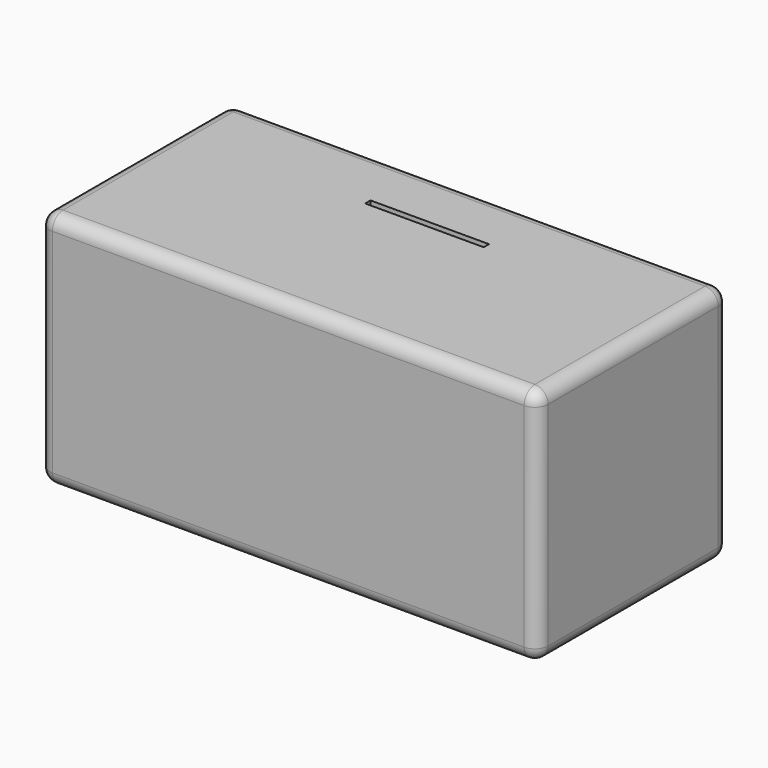
from build123d import *

# Parameters (mm, degrees)
F0_W     = 75
F0_H     = 36
F1_DEPTH = 36
F2_R     = 2


with BuildPart() as f1:
    # F0 (on Top) → F1 (new body)
    with BuildSketch(Plane.XY):
        Rectangle(F0_W, F0_H)
        Polygon((-8.825392, 7.5), (-8.825392, 8), (-8.825392, 8.5), (8.995996, 8.5), (8.995996, 8), (8.995996, 7.5), align=None, mode=Mode.SUBTRACT)
    extrude(amount=F1_DEPTH)

    # F2
    f2_edges = [f1.edges().sort_by_distance(p)[0] for p in [
        (0, -18, 36),
        (37.5, -18, 18),
        (37.5, 0, 36),
        (37.5, 18, 18),
        (37.5, 0, 0),
        (0, -18, 0),
        (-37.5, -18, 18),
        (0, 18, 0),
        (-37.5, 0, 0),
        (-37.5, 18, 18),
        (-37.5, 0, 36),
        (0, 18, 36),
    ]]
    fillet(f2_edges, radius=F2_R)


solid = f1.part
